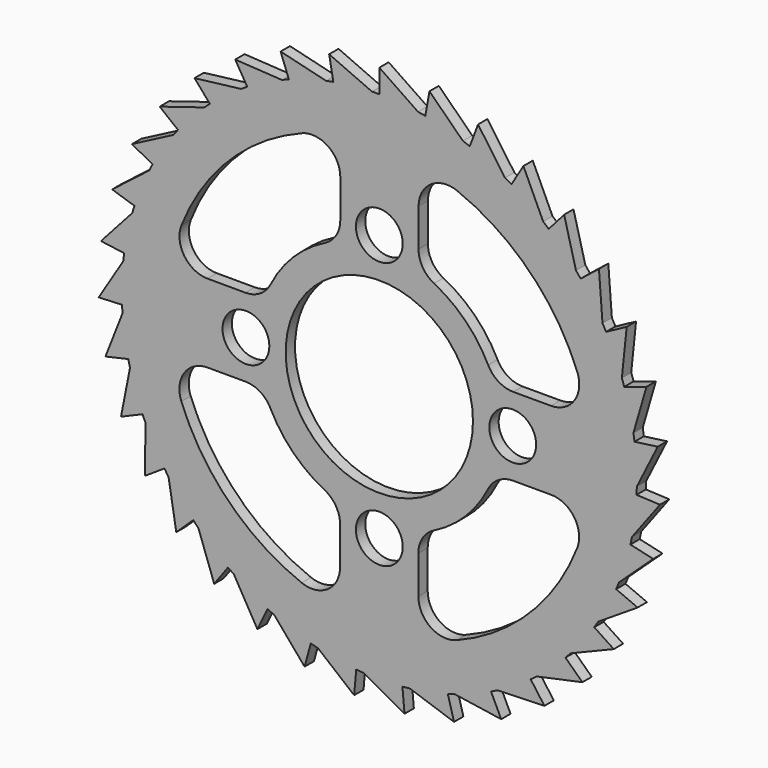
from build123d import *

# Parameters (mm, degrees)
F0_R     = 6.35
F0_R_2   = 25.4
F1_DEPTH = 3.175


with BuildPart() as f1:
    # F0 (on Front) → F1 (new body)
    with BuildSketch(Plane.XZ):
        with BuildLine():
            ThreePointArc((69.840767, -1.135649), (69.847692, -0.567843), (69.85, 0))
            ThreePointArc((69.85, 0), (69.691781, 4.69874), (69.217841, 9.376194))
            ThreePointArc((69.217841, 9.376194), (69.076581, 10.365734), (68.921176, 11.353152))
            ThreePointArc((68.921176, 11.353152), (67.869322, 16.515982), (66.431298, 21.584837))
            ThreePointArc((66.431298, 21.584837), (66.115619, 22.533252), (65.7864, 23.477053))
            ThreePointArc((65.7864, 23.477053), (63.829592, 28.369098), (61.509598, 33.099726))
            ThreePointArc((61.509598, 33.099726), (61.029646, 33.976533), (60.537196, 34.846383))
            ThreePointArc((60.537196, 34.846383), (57.738326, 39.310409), (54.610929, 43.550763))
            ThreePointArc((54.610929, 43.550763), (53.98213, 44.32778), (53.342277, 45.095721))
            ThreePointArc((53.342277, 45.095721), (49.791302, 48.988251), (45.95702, 52.602042))
            ThreePointArc((45.95702, 52.602042), (45.199584, 53.254296), (44.432892, 53.895645))
            ThreePointArc((44.432892, 53.895645), (40.243946, 57.09157), (35.826015, 59.962648))
            ThreePointArc((35.826015, 59.962648), (34.964287, 60.469175), (34.095399, 60.963319))
            ThreePointArc((34.095399, 60.963319), (29.403116, 63.359919), (24.543531, 65.396006))
            ThreePointArc((24.543531, 65.396006), (23.605208, 65.740525), (22.662051, 66.071582))
            ThreePointArc((22.662051, 66.071582), (17.617245, 67.591828), (12.472199, 68.727482))
            ThreePointArc((12.472199, 68.727482), (11.487439, 68.898921), (10.500326, 69.05625))
            ThreePointArc((10.500326, 69.05625), (5.265142, 69.65128), (0, 69.85))
            ThreePointArc((0, 69.85), (-0.999547, 69.842848), (-1.998889, 69.821393))
            ThreePointArc((-1.998889, 69.821393), (-7.256187, 69.472082), (-12.472199, 68.727482))
            ThreePointArc((-12.472199, 68.727482), (-13.454406, 68.541969), (-14.433857, 68.342419))
            ThreePointArc((-14.433857, 68.342419), (-19.544297, 67.059995), (-24.543531, 65.396006))
            ThreePointArc((-24.543531, 65.396006), (-25.476829, 65.038094), (-26.404909, 64.666864))
            ThreePointArc((-26.404909, 64.666864), (-31.204236, 62.492545), (-35.826015, 59.962648))
            ThreePointArc((-35.826015, 59.962648), (-36.680406, 59.443842), (-37.527286, 58.912862))
            ThreePointArc((-37.527286, 58.912862), (-41.861246, 55.916532), (-45.95702, 52.602042))
            ThreePointArc((-45.95702, 52.602042), (-46.705044, 51.939015), (-47.443504, 51.265353))
            ThreePointArc((-47.443504, 51.265353), (-51.172801, 47.543316), (-54.610929, 43.550763))
            ThreePointArc((-54.610929, 43.550763), (-55.228544, 42.764826), (-55.83485, 41.970133))
            ThreePointArc((-55.83485, 41.970133), (-58.83962, 37.642019), (-61.509598, 33.099726))
            ThreePointArc((-61.509598, 33.099726), (-61.976954, 32.216141), (-62.431618, 31.325958))
            ThreePointArc((-62.431618, 31.325958), (-64.615285, 26.530877), (-66.431298, 21.584837))
            ThreePointArc((-66.431298, 21.584837), (-66.733373, 20.632002), (-67.021781, 19.674941))
            ThreePointArc((-67.021781, 19.674941), (-68.314162, 14.56701), (-69.217841, 9.376194))
            ThreePointArc((-69.217841, 9.376194), (-69.344926, 8.384733), (-69.45781, 7.391555))
            ThreePointArc((-69.45781, 7.391555), (-69.817365, 2.134947), (-69.779666, -3.133808))
            ThreePointArc((-69.779666, -3.133808), (-69.727676, -4.132028), (-69.661408, -5.129401))
            ThreePointArc((-69.661408, -5.129401), (-69.076581, -10.365734), (-68.098715, -15.543087))
            ThreePointArc((-68.098715, -15.543087), (-67.869322, -16.515982), (-67.626031, -17.485494))
            ThreePointArc((-67.626031, -17.485494), (-66.115619, -22.533252), (-64.229015, -27.452798))
            ThreePointArc((-64.229015, -27.452798), (-63.829592, -28.369098), (-63.417097, -29.279589))
            ThreePointArc((-63.417097, -29.279589), (-61.029646, -33.976533), (-58.294942, -38.480154))
            ThreePointArc((-58.294942, -38.480154), (-57.738326, -39.310409), (-57.169886, -40.132614))
            ThreePointArc((-57.169886, -40.132614), (-53.98213, -44.32778), (-50.487221, -48.270726))
            ThreePointArc((-50.487221, -48.270726), (-49.791302, -48.988251), (-49.085187, -49.695743))
            ThreePointArc((-49.085187, -49.695743), (-45.199584, -53.254296), (-41.0568, -56.509837))
            ThreePointArc((-41.0568, -56.509837), (-40.243946, -57.09157), (-39.42285, -57.661611))
            ThreePointArc((-39.42285, -57.661611), (-34.964287, -60.469175), (-30.306779, -62.932675))
            ThreePointArc((-30.306779, -62.932675), (-29.403116, -63.359919), (-28.493431, -63.774187))
            ThreePointArc((-28.493431, -63.774187), (-23.605208, -65.740525), (-18.582674, -67.332806))
            ThreePointArc((-18.582674, -67.332806), (-17.617245, -67.591828), (-16.648209, -67.837008))
            ThreePointArc((-16.648209, -67.837008), (-11.487439, -68.898921), (-6.261306, -69.568804))
            ThreePointArc((-6.261306, -69.568804), (-5.265142, -69.65128), (-4.2679, -69.719492))
            ThreePointArc((-4.2679, -69.719492), (0.999547, -69.842848), (6.261306, -69.568804))
            ThreePointArc((6.261306, -69.568804), (7.256187, -69.472082), (8.249583, -69.361134))
            ThreePointArc((8.249583, -69.361134), (13.454406, -68.541969), (18.582674, -67.332806))
            ThreePointArc((18.582674, -67.332806), (19.544297, -67.059995), (20.501918, -66.773452))
            ThreePointArc((20.501918, -66.773452), (25.476829, -65.038094), (30.306779, -62.932675))
            ThreePointArc((30.306779, -62.932675), (31.204236, -62.492545), (32.095304, -62.039616))
            ThreePointArc((32.095304, -62.039616), (36.680406, -59.443842), (41.0568, -56.509837))
            ThreePointArc((41.0568, -56.509837), (41.861246, -55.916532), (42.65712, -55.311776))
            ThreePointArc((42.65712, -55.311776), (46.705044, -51.939015), (50.487221, -48.270726))
            ThreePointArc((50.487221, -48.270726), (51.172801, -47.543316), (51.847902, -46.806171))
            ThreePointArc((51.847902, -46.806171), (55.228544, -42.764826), (58.294942, -38.480154))
            ThreePointArc((58.294942, -38.480154), (58.83962, -37.642019), (59.372249, -36.796176))
            ThreePointArc((59.372249, -36.796176), (61.976954, -32.216141), (64.229015, -27.452798))
            ThreePointArc((64.229015, -27.452798), (64.615285, -26.530877), (64.988323, -25.603522))
            ThreePointArc((64.988323, -25.603522), (66.733373, -20.632002), (68.098715, -15.543087))
            ThreePointArc((68.098715, -15.543087), (68.314162, -14.56701), (68.51562, -13.587949))
            ThreePointArc((68.51562, -13.587949), (69.344926, -8.384733), (69.779666, -3.133808))
            ThreePointArc((69.779666, -3.133808), (69.817365, -2.134947), (69.840767, -1.135649))
        make_face()
        with BuildLine():
            ThreePointArc((-36.336445, -10.580888), (-32.332705, -11.717489), (-29.523362, -14.788222))
            ThreePointArc((-29.523362, -14.788222), (-23.367581, -23.329735), (-14.836057, -29.499353))
            ThreePointArc((-14.836057, -29.499353), (-11.769883, -32.313669), (-10.639772, -36.319247))
            Line((-10.639772, -36.319247), (-10.656426, -46.593185))
            ThreePointArc((-10.656426, -46.593185), (-13.988715, -52.880042), (-21.059626, -53.674362))
            ThreePointArc((-21.059626, -53.674362), (-40.803392, -40.737307), (-53.708427, -20.972597))
            ThreePointArc((-53.708427, -20.972597), (-52.902647, -13.902983), (-46.610397, -10.580888))
            Line((-46.610397, -10.580888), (-36.336445, -10.580888))
        make_face(mode=Mode.SUBTRACT)
        with Locations((-36.186364, 0)):
            Circle(F0_R, mode=Mode.SUBTRACT)
        with Locations((0, -36.186364)):
            Circle(F0_R, mode=Mode.SUBTRACT)
        with BuildLine():
            ThreePointArc((10.580888, -36.336445), (11.717489, -32.332705), (14.788222, -29.523362))
            ThreePointArc((14.788222, -29.523362), (23.329735, -23.367581), (29.499353, -14.836057))
            ThreePointArc((29.499353, -14.836057), (32.313669, -11.769883), (36.319247, -10.639772))
            Line((36.319247, -10.639772), (46.593185, -10.656426))
            ThreePointArc((46.593185, -10.656426), (52.880042, -13.988715), (53.674362, -21.059626))
            ThreePointArc((53.674362, -21.059626), (40.737307, -40.803392), (20.972597, -53.708427))
            ThreePointArc((20.972597, -53.708427), (13.902983, -52.902647), (10.580888, -46.610397))
            Line((10.580888, -46.610397), (10.580888, -36.336445))
        make_face(mode=Mode.SUBTRACT)
        Circle(F0_R_2, mode=Mode.SUBTRACT)
        with Locations((36.186364, 0)):
            Circle(F0_R, mode=Mode.SUBTRACT)
        with BuildLine():
            ThreePointArc((-10.580888, 36.336445), (-11.717489, 32.332705), (-14.788222, 29.523362))
            ThreePointArc((-14.788222, 29.523362), (-23.329735, 23.367581), (-29.499353, 14.836057))
            ThreePointArc((-29.499353, 14.836057), (-32.313669, 11.769883), (-36.319247, 10.639772))
            Line((-36.319247, 10.639772), (-46.593185, 10.656426))
            ThreePointArc((-46.593185, 10.656426), (-52.880042, 13.988715), (-53.674362, 21.059626))
            ThreePointArc((-53.674362, 21.059626), (-40.737307, 40.803392), (-20.972597, 53.708427))
            ThreePointArc((-20.972597, 53.708427), (-13.902983, 52.902647), (-10.580888, 46.610397))
            Line((-10.580888, 46.610397), (-10.580888, 36.336445))
        make_face(mode=Mode.SUBTRACT)
        with Locations((0, 36.186364)):
            Circle(F0_R, mode=Mode.SUBTRACT)
        with BuildLine():
            ThreePointArc((36.336445, 10.580888), (32.332705, 11.717489), (29.523362, 14.788222))
            ThreePointArc((29.523362, 14.788222), (23.367581, 23.329735), (14.836057, 29.499353))
            ThreePointArc((14.836057, 29.499353), (11.769883, 32.313669), (10.639772, 36.319247))
            Line((10.639772, 36.319247), (10.656426, 46.593185))
            ThreePointArc((10.656426, 46.593185), (13.988715, 52.880042), (21.059626, 53.674362))
            ThreePointArc((21.059626, 53.674362), (40.803392, 40.737307), (53.708427, 20.972597))
            ThreePointArc((53.708427, 20.972597), (52.902647, 13.902983), (46.610397, 10.580888))
            Line((46.610397, 10.580888), (36.336445, 10.580888))
        make_face(mode=Mode.SUBTRACT)
        with BuildLine():
            ThreePointArc((69.217841, 9.376194), (69.691781, 4.69874), (69.85, 0))
            ThreePointArc((69.85, 0), (69.847692, -0.567843), (69.840767, -1.135649))
            Line((69.840767, -1.135649), (75.510372, 10.228575))
            Line((75.510372, 10.228575), (69.217841, 9.376194))
        make_face()
        with BuildLine():
            ThreePointArc((66.431298, 21.584837), (67.869322, 16.515982), (68.921176, 11.353152))
            Line((68.921176, 11.353152), (72.470507, 23.547095))
            Line((72.470507, 23.547095), (66.431298, 21.584837))
        make_face()
        with BuildLine():
            ThreePointArc((61.509598, 33.099726), (63.829592, 28.369098), (65.7864, 23.477053))
            Line((65.7864, 23.477053), (67.10138, 36.108792))
            Line((67.10138, 36.108792), (61.509598, 33.099726))
        make_face()
        with BuildLine():
            ThreePointArc((54.610929, 43.550763), (57.738326, 39.310409), (60.537196, 34.846383))
            Line((60.537196, 34.846383), (59.575559, 47.509923))
            Line((59.575559, 47.509923), (54.610929, 43.550763))
        make_face()
        with BuildLine():
            ThreePointArc((45.95702, 52.602042), (49.791302, 48.988251), (53.342277, 45.095721))
            Line((53.342277, 45.095721), (50.134931, 57.384046))
            Line((50.134931, 57.384046), (45.95702, 52.602042))
        make_face()
        with BuildLine():
            ThreePointArc((35.826015, 59.962648), (40.243946, 57.09157), (44.432892, 53.895645))
            Line((44.432892, 53.895645), (39.082925, 65.413798))
            Line((39.082925, 65.413798), (35.826015, 59.962648))
        make_face()
        with BuildLine():
            ThreePointArc((24.543531, 65.396006), (29.403116, 63.359919), (34.095399, 60.963319))
            Line((34.095399, 60.963319), (26.774762, 71.341097))
            Line((26.774762, 71.341097), (24.543531, 65.396006))
        make_face()
        with BuildLine():
            ThreePointArc((12.472199, 68.727482), (17.617245, 67.591828), (22.662051, 66.071582))
            Line((22.662051, 66.071582), (13.606035, 74.975435))
            Line((13.606035, 74.975435), (12.472199, 68.727482))
        make_face()
        with BuildLine():
            ThreePointArc((0, 69.85), (5.265142, 69.65128), (10.500326, 69.05625))
            Line((10.500326, 69.05625), (0, 76.2))
            Line((0, 76.2), (0, 69.85))
        make_face()
        with BuildLine():
            ThreePointArc((-12.472199, 68.727482), (-7.256187, 69.472082), (-1.998889, 69.821393))
            Line((-1.998889, 69.821393), (-13.606035, 74.975435))
            Line((-13.606035, 74.975435), (-12.472199, 68.727482))
        make_face()
        with BuildLine():
            ThreePointArc((-24.543531, 65.396006), (-19.544297, 67.059995), (-14.433857, 68.342419))
            Line((-14.433857, 68.342419), (-26.774762, 71.341097))
            Line((-26.774762, 71.341097), (-24.543531, 65.396006))
        make_face()
        with BuildLine():
            ThreePointArc((-35.826015, 59.962648), (-31.204236, 62.492545), (-26.404909, 64.666864))
            Line((-26.404909, 64.666864), (-39.082925, 65.413798))
            Line((-39.082925, 65.413798), (-35.826015, 59.962648))
        make_face()
        with BuildLine():
            ThreePointArc((-45.95702, 52.602042), (-41.861246, 55.916532), (-37.527286, 58.912862))
            Line((-37.527286, 58.912862), (-50.134931, 57.384046))
            Line((-50.134931, 57.384046), (-45.95702, 52.602042))
        make_face()
        with BuildLine():
            ThreePointArc((-54.610929, 43.550763), (-51.172801, 47.543316), (-47.443504, 51.265353))
            Line((-47.443504, 51.265353), (-59.575559, 47.509923))
            Line((-59.575559, 47.509923), (-54.610929, 43.550763))
        make_face()
        with BuildLine():
            ThreePointArc((-61.509598, 33.099726), (-58.83962, 37.642019), (-55.83485, 41.970133))
            Line((-55.83485, 41.970133), (-67.10138, 36.108792))
            Line((-67.10138, 36.108792), (-61.509598, 33.099726))
        make_face()
        with BuildLine():
            ThreePointArc((-66.431298, 21.584837), (-64.615285, 26.530877), (-62.431618, 31.325958))
            Line((-62.431618, 31.325958), (-72.470507, 23.547095))
            Line((-72.470507, 23.547095), (-66.431298, 21.584837))
        make_face()
        with BuildLine():
            ThreePointArc((-69.217841, 9.376194), (-68.314162, 14.56701), (-67.021781, 19.674941))
            Line((-67.021781, 19.674941), (-75.510372, 10.228575))
            Line((-75.510372, 10.228575), (-69.217841, 9.376194))
        make_face()
        with BuildLine():
            ThreePointArc((-69.779666, -3.133808), (-69.817365, 2.134947), (-69.45781, 7.391555))
            Line((-69.45781, 7.391555), (-76.123272, -3.4187))
            Line((-76.123272, -3.4187), (-69.779666, -3.133808))
        make_face()
        with BuildLine():
            Line((-74.289507, -16.956095), (-68.098715, -15.543087))
            ThreePointArc((-68.098715, -15.543087), (-69.076581, -10.365734), (-69.661408, -5.129401))
            Line((-69.661408, -5.129401), (-74.289507, -16.956095))
        make_face()
        with BuildLine():
            Line((-70.068016, -29.948507), (-64.229015, -27.452798))
            ThreePointArc((-64.229015, -27.452798), (-66.115619, -22.533252), (-67.626031, -17.485494))
            Line((-67.626031, -17.485494), (-70.068016, -29.948507))
        make_face()
        with BuildLine():
            Line((-63.594482, -41.97835), (-58.294942, -38.480154))
            ThreePointArc((-58.294942, -38.480154), (-61.029646, -33.976533), (-63.417097, -29.279589))
            Line((-63.417097, -29.279589), (-63.594482, -41.97835))
        make_face()
        with BuildLine():
            Line((-55.076969, -52.658974), (-50.487221, -48.270726))
            ThreePointArc((-50.487221, -48.270726), (-53.98213, -44.32778), (-57.169886, -40.132614))
            Line((-57.169886, -40.132614), (-55.076969, -52.658974))
        make_face()
        with BuildLine():
            Line((-44.789236, -61.647095), (-41.0568, -56.509837))
            ThreePointArc((-41.0568, -56.509837), (-45.199584, -53.254296), (-49.085187, -49.695743))
            Line((-49.085187, -49.695743), (-44.789236, -61.647095))
        make_face()
        with BuildLine():
            Line((-33.061941, -68.653828), (-30.306779, -62.932675))
            ThreePointArc((-30.306779, -62.932675), (-34.964287, -60.469175), (-39.42285, -57.661611))
            Line((-39.42285, -57.661611), (-33.061941, -68.653828))
        make_face()
        with BuildLine():
            Line((-20.272008, -73.45397), (-18.582674, -67.332806))
            ThreePointArc((-18.582674, -67.332806), (-23.605208, -65.740525), (-28.493431, -63.774187))
            Line((-28.493431, -63.774187), (-20.272008, -73.45397))
        make_face()
        with BuildLine():
            Line((-6.830515, -75.893241), (-6.261306, -69.568804))
            ThreePointArc((-6.261306, -69.568804), (-11.487439, -68.898921), (-16.648209, -67.837008))
            Line((-16.648209, -67.837008), (-6.830515, -75.893241))
        make_face()
        with BuildLine():
            Line((6.830515, -75.893241), (6.261306, -69.568804))
            ThreePointArc((6.261306, -69.568804), (0.999547, -69.842848), (-4.2679, -69.719492))
            Line((-4.2679, -69.719492), (6.830515, -75.893241))
        make_face()
        with BuildLine():
            Line((20.272008, -73.45397), (18.582674, -67.332806))
            ThreePointArc((18.582674, -67.332806), (13.454406, -68.541969), (8.249583, -69.361134))
            Line((8.249583, -69.361134), (20.272008, -73.45397))
        make_face()
        with BuildLine():
            Line((33.061941, -68.653828), (30.306779, -62.932675))
            ThreePointArc((30.306779, -62.932675), (25.476829, -65.038094), (20.501918, -66.773452))
            Line((20.501918, -66.773452), (33.061941, -68.653828))
        make_face()
        with BuildLine():
            Line((44.789236, -61.647095), (41.0568, -56.509837))
            ThreePointArc((41.0568, -56.509837), (36.680406, -59.443842), (32.095304, -62.039616))
            Line((32.095304, -62.039616), (44.789236, -61.647095))
        make_face()
        with BuildLine():
            Line((55.076969, -52.658974), (50.487221, -48.270726))
            ThreePointArc((50.487221, -48.270726), (46.705044, -51.939015), (42.65712, -55.311776))
            Line((42.65712, -55.311776), (55.076969, -52.658974))
        make_face()
        with BuildLine():
            Line((63.594482, -41.97835), (58.294942, -38.480154))
            ThreePointArc((58.294942, -38.480154), (55.228544, -42.764826), (51.847902, -46.806171))
            Line((51.847902, -46.806171), (63.594482, -41.97835))
        make_face()
        with BuildLine():
            Line((70.068016, -29.948507), (64.229015, -27.452798))
            ThreePointArc((64.229015, -27.452798), (61.976954, -32.216141), (59.372249, -36.796176))
            Line((59.372249, -36.796176), (70.068016, -29.948507))
        make_face()
        with BuildLine():
            Line((74.289507, -16.956095), (68.098715, -15.543087))
            ThreePointArc((68.098715, -15.543087), (66.733373, -20.632002), (64.988323, -25.603522))
            Line((64.988323, -25.603522), (74.289507, -16.956095))
        make_face()
        with BuildLine():
            Line((76.123272, -3.4187), (69.779666, -3.133808))
            ThreePointArc((69.779666, -3.133808), (69.344926, -8.384733), (68.51562, -13.587949))
            Line((68.51562, -13.587949), (76.123272, -3.4187))
        make_face()
    extrude(amount=F1_DEPTH)


solid = f1.part
